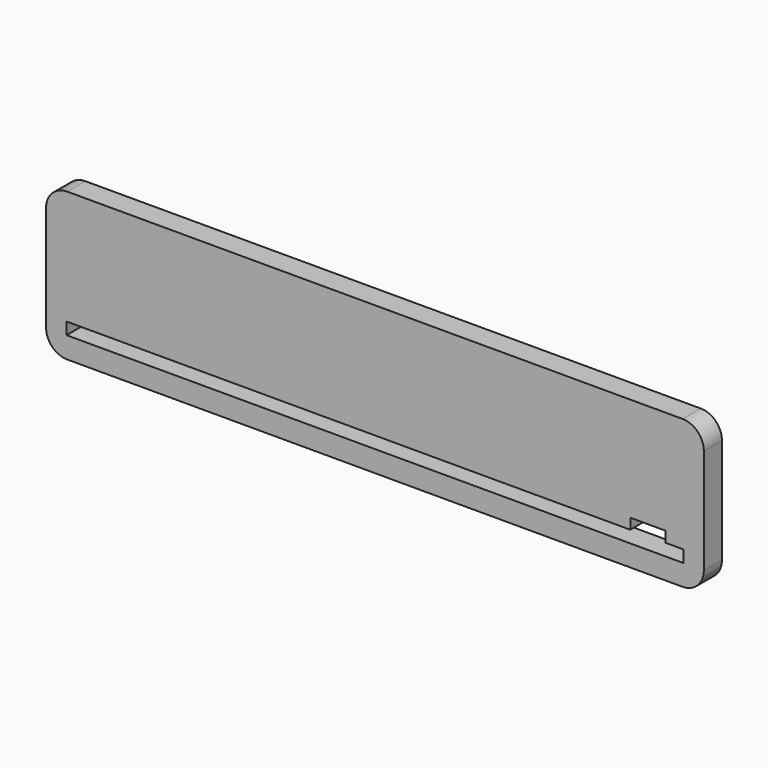
from build123d import *

# Parameters (mm, degrees)
F1_DEPTH = 3.2


with BuildPart() as f1:
    # F0 (on Front) → F1 (new body)
    with BuildSketch(Plane.XZ):
        with BuildLine():
            Line((30.850063, 1.770954), (-56.149937, 1.770954))
            ThreePointArc((-56.149937, 1.770954), (-58.271257, 0.892275), (-59.149937, -1.229046))
            Line((-59.149937, -1.229046), (-59.149937, -16.129046))
            ThreePointArc((-59.149937, -16.129046), (-58.271257, -18.250366), (-56.149937, -19.129046))
            Line((-56.149937, -19.129046), (30.850063, -19.129046))
            ThreePointArc((30.850063, -19.129046), (32.971384, -18.250366), (33.850063, -16.129046))
            Line((33.850063, -16.129046), (33.850063, -1.229046))
            ThreePointArc((33.850063, -1.229046), (32.971384, 0.892275), (30.850063, 1.770954))
        make_face()
        Polygon((-56.249937, -16.129046), (-56.249937, -14.429046), (23.450063, -14.429046), (23.450063, -12.929046), (28.450063, -12.929046), (28.450063, -14.429046), (30.950063, -14.429046), (30.950063, -16.129046), align=None, mode=Mode.SUBTRACT)
    extrude(amount=F1_DEPTH)


solid = f1.part
